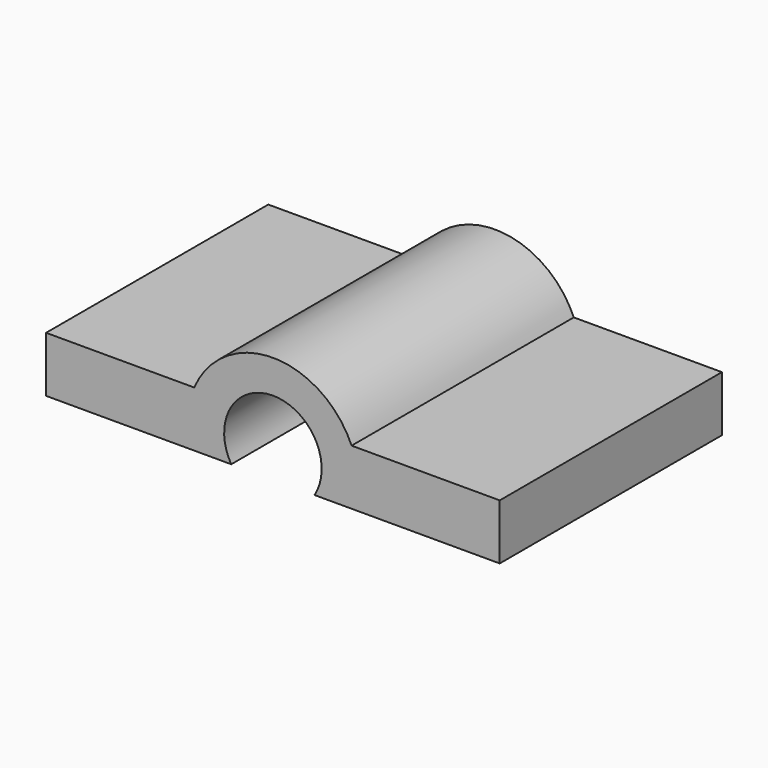
from build123d import *

# Parameters (mm, degrees)
F1_DEPTH = 15


with BuildPart() as f1:
    # F0 (on Front) → F1 (new body)
    with BuildSketch(Plane.XZ):
        with BuildLine():
            Line((-12.25, 3), (-12.25, 0))
            Line((-12.25, 0), (-2.25, 0))
            ThreePointArc((-2.25, 0), (0, 4), (2.25, 0))
            Line((2.25, 0), (12.25, 0))
            Line((12.25, 0), (12.25, 3))
            Line((12.25, 3), (4.25, 3))
            ThreePointArc((4.25, 3), (0, 5.8), (-4.25, 3))
            Line((-4.25, 3), (-12.25, 3))
        make_face()
    extrude(amount=F1_DEPTH)


solid = f1.part
